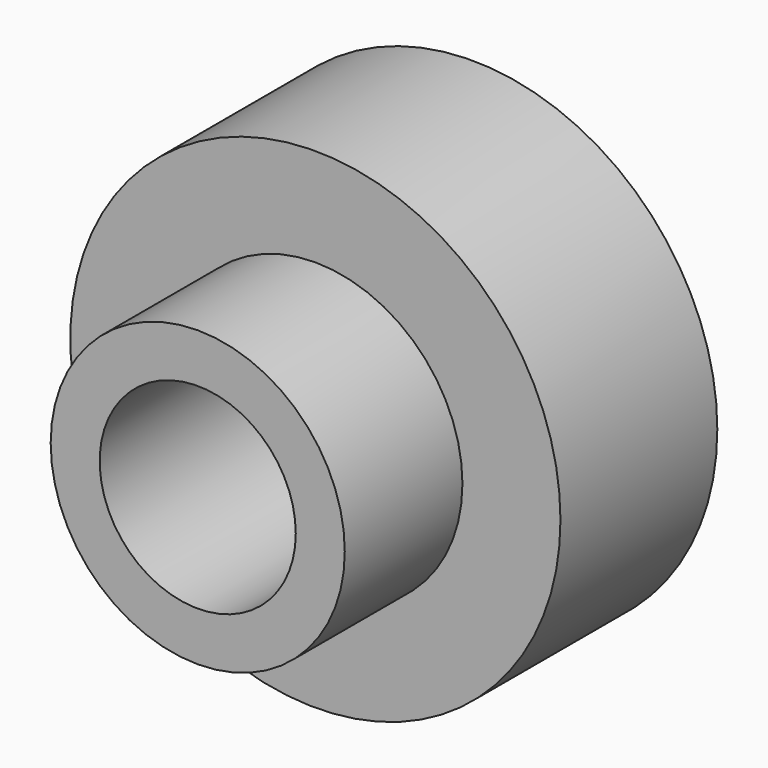
from build123d import *

# Parameters (mm, degrees)
F1_R      = 19.05
F1_R_2    = 12.7
F2_DEPTH  = 44.45
F0_R      = 31.75
F3_DEPTH  = 25.4
F3_FACE_R = 12.7
F4_DEPTH  = 25.4


with BuildPart() as f2:
    # F1 (on Front) → F2 (new body)
    with BuildSketch(Plane.XZ):
        Circle(F1_R)
        Circle(F1_R_2, mode=Mode.SUBTRACT)
    extrude(amount=F2_DEPTH)

    # F0 (on Front) → F3 (join)
    with BuildSketch(Plane.XZ):
        Circle(F0_R)
    extrude(amount=F3_DEPTH)

    # F3_face (on face) → F4 (cut)
    with BuildSketch(Plane.XZ.offset(25.4)):
        Circle(F3_FACE_R)
    extrude(amount=-F4_DEPTH, mode=Mode.SUBTRACT)


solid = f2.part
